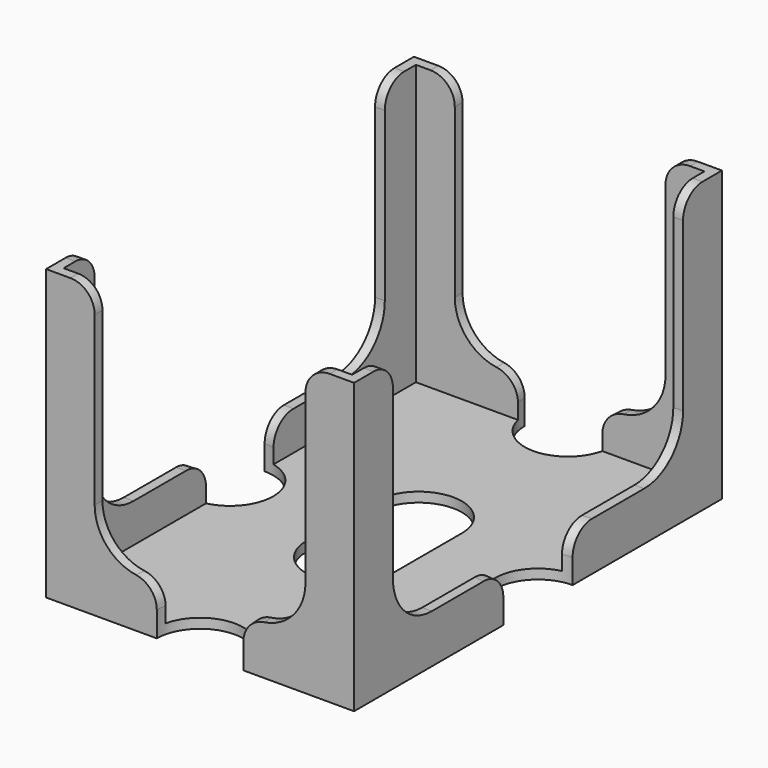
from build123d import *

# Parameters (mm, degrees)
SKETCH042_W          = 50.7
SKETCH042_H          = 75.7
PAD018_DEPTH         = 47.6
THICKNESS018_T       = -1.6
POCKET022_DEPTH      = 37.851
POCKET022_DEPTH_BACK = 37.851
POCKET021_DEPTH      = 25.351
POCKET021_DEPTH_BACK = 25.351
SKETCH040_R          = 7.125
POCKET023_DEPTH      = 0.001
POCKET023_DEPTH_BACK = 47.601
FILLET004_R          = 4


with BuildPart() as part:
    # Sketch042 → Pad018 (new body)
    with BuildSketch(Plane.XY):
        Rectangle(SKETCH042_W, SKETCH042_H)
    extrude(amount=PAD018_DEPTH)

    # Thickness018
    thickness018_openings = [part.faces().sort_by_distance(p)[0] for p in [
        (0, 0, 47.6),
    ]]
    offset(amount=THICKNESS018_T, openings=thickness018_openings, kind=Kind.INTERSECTION)

    # Sketch041 → Pocket022 (cut, two sides)
    with BuildSketch(Plane.XZ) as pocket022_sk:
        with BuildLine():
            Line((-17.35, 47.6), (17.35, 47.6))
            Line((17.35, 47.6), (17.35, 16))
            ThreePointArc((9.35, 8), (15.006854, 10.343146), (17.35, 16))
            Line((9.35, 8), (-9.35, 8))
            ThreePointArc((-17.35, 16), (-15.006854, 10.343146), (-9.35, 8))
            Line((-17.35, 16), (-17.35, 47.6))
        make_face()
    extrude(amount=-POCKET022_DEPTH, mode=Mode.SUBTRACT)
    extrude(pocket022_sk.sketch, amount=POCKET022_DEPTH_BACK, mode=Mode.SUBTRACT)

    # Sketch039 → Pocket021 (cut, two sides)
    with BuildSketch(Plane.YZ) as pocket021_sk:
        with BuildLine():
            Line((-29.85, 47.6), (29.85, 47.6))
            Line((29.85, 47.6), (29.85, 16))
            ThreePointArc((21.85, 8), (27.506854, 10.343146), (29.85, 16))
            Line((21.85, 8), (-21.85, 8))
            ThreePointArc((-29.85, 16), (-27.506854, 10.343146), (-21.85, 8))
            Line((-29.85, 16), (-29.85, 47.6))
        make_face()
    extrude(amount=-POCKET021_DEPTH, mode=Mode.SUBTRACT)
    extrude(pocket021_sk.sketch, amount=POCKET021_DEPTH_BACK, mode=Mode.SUBTRACT)

    # Sketch040 → Pocket023 (cut, two sides)
    with BuildSketch(Plane.XY) as pocket023_sk:
        with Locations((0, 37.85)):
            Circle(SKETCH040_R)
        with Locations((0, -37.85)):
            Circle(SKETCH040_R)
        with Locations((25.35, 0)):
            Circle(SKETCH040_R)
        with Locations((-25.35, 0)):
            Circle(SKETCH040_R)
        with BuildLine():
            ThreePointArc((7.125, 7.125), (0, 14.25), (-7.125, 7.125))
            Line((-7.125, 7.125), (-7.125, -7.125))
            ThreePointArc((-7.125, -7.125), (0, -14.25), (7.125, -7.125))
            Line((7.125, 7.125), (7.125, -7.125))
        make_face()
    extrude(amount=-POCKET023_DEPTH, mode=Mode.SUBTRACT)
    extrude(pocket023_sk.sketch, amount=POCKET023_DEPTH_BACK, mode=Mode.SUBTRACT)

    # Fillet004
    fillet004_edges = [part.edges().sort_by_distance(p)[0] for p in [
        (24.544843, -7.079361, 8),
        (24.544843, 7.079361, 8),
        (24.55, 29.85, 47.6),
        (17.35, 37.05, 47.6),
        (7.079361, 37.044843, 8),
        (-7.079361, 37.044843, 8),
        (-17.35, 37.05, 47.6),
        (-24.55, 29.85, 47.6),
        (-24.544843, 7.079361, 8),
        (-24.544843, -7.079361, 8),
        (-24.55, -29.85, 47.6),
        (-17.35, -37.05, 47.6),
        (-7.079361, -37.044843, 8),
        (7.079361, -37.044843, 8),
        (17.35, -37.05, 47.6),
        (24.55, -29.85, 47.6),
    ]]
    fillet(fillet004_edges, radius=FILLET004_R)


with BuildPart() as part_1:
    # Body018 placement: moved
    add(part.part.moved(Location((49.1, 0, 0))))


solid = part_1.part
